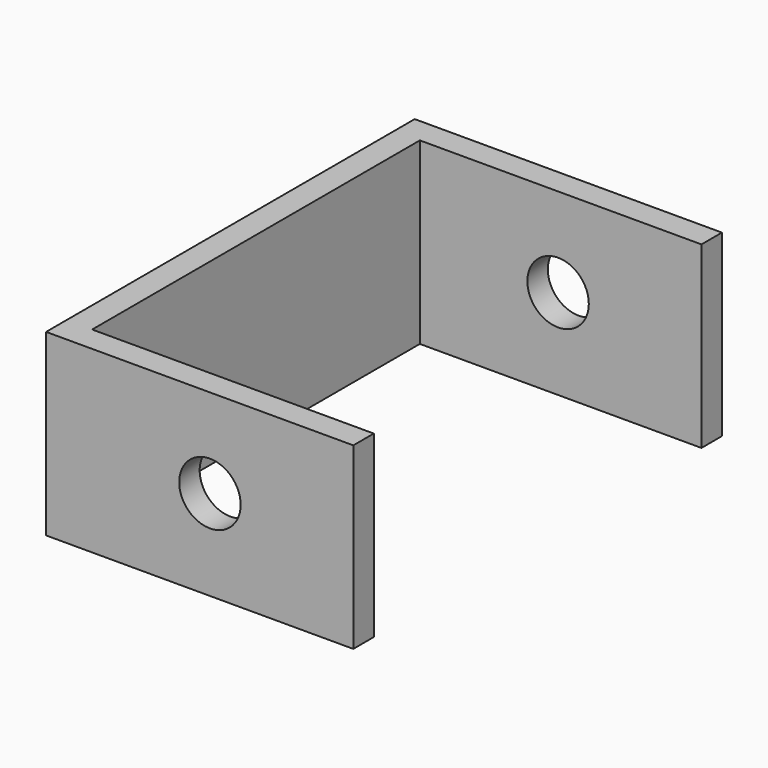
from build123d import *

# Parameters (mm, degrees)
F0_W     = 55
F0_H     = 5
F1_DEPTH = 35
F3_D     = 12


with BuildPart() as f1:
    # F0 (on Top) → F1 (new body)
    with BuildSketch(Plane.XY):
        Polygon((0, -40), (0, 0), (-5, 0), (-5, -45), (0, -45), align=None)
        Polygon((-5, 0), (0, 0), (0, 40), (0, 45), (-5, 45), align=None)
        with Locations((27.5, 42.5)):
            Rectangle(F0_W, F0_H)
        with Locations((27.5, -42.5)):
            Rectangle(F0_W, F0_H)
    extrude(amount=F1_DEPTH)

    # F3 (through all)
    with Locations(Plane(origin=(0, 45, 0), x_dir=(-1, 0, 0), z_dir=(0, 1, 0))):
        with Locations((-27, 17.614661)):
            Hole(F3_D / 2)


solid = f1.part
